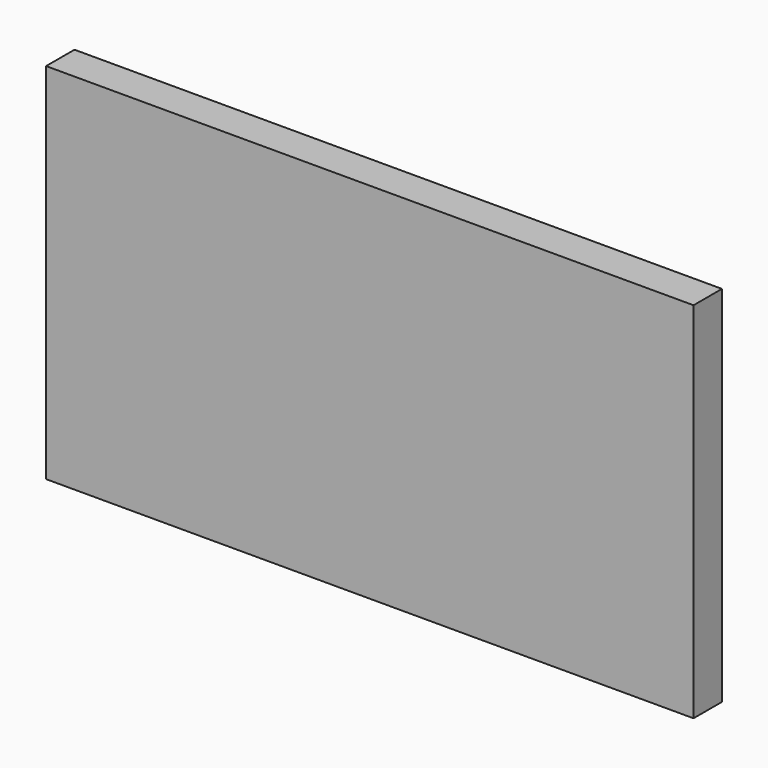
from build123d import *

# Parameters (mm, degrees)
F0_W     = 365
F0_H     = 530
F1_DEPTH = 10
F2_W     = 325
F2_H     = 20
F3_DEPTH = 195
F4_W     = 365
F4_H     = 510
F5_DEPTH = 205.001


with BuildPart() as f1:
    # F0 (on Top) → F1 (new body)
    with BuildSketch(Plane.XY):
        Rectangle(F0_W, F0_H)
    extrude(amount=F1_DEPTH)

    # F2 (on face) → F3 (join)
    with BuildSketch(Plane.XY.offset(10)):
        Polygon((-162.5, 265), (-182.5, 265), (-182.5, -265), (-162.5, -265), (-162.5, -245), (-162.5, 245), align=None)
        with Locations((0, 255)):
            Rectangle(F2_W, F2_H)
        Polygon((182.5, 265), (162.5, 265), (162.5, 245), (162.5, -245), (162.5, -265), (182.5, -265), align=None)
        with Locations((0, -255)):
            Rectangle(F2_W, F2_H)
    extrude(amount=F3_DEPTH)

    # F4 (on face) → F5 (cut, through all)
    with BuildSketch(Plane.XY.offset(205)):
        with Locations((0, 10)):
            Rectangle(F4_W, F4_H)
        Polygon((182.5, 265), (-182.5, 265), (-182.5, -245), (-162.5, -245), (182.5, -245), align=None)
    extrude(amount=-F5_DEPTH, mode=Mode.SUBTRACT)


solid = f1.part
